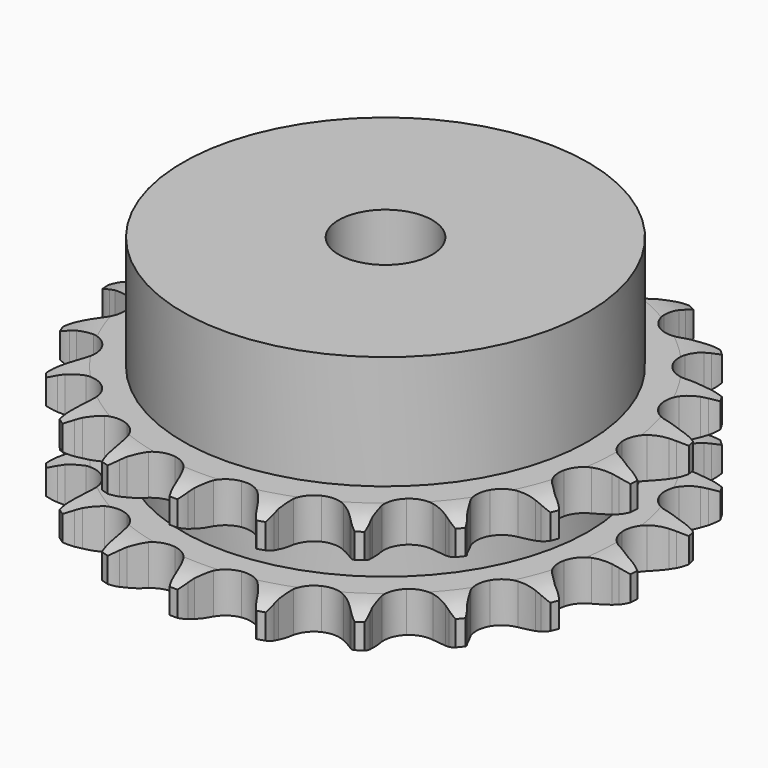
from build123d import *

# Parameters (mm, degrees)
PAD_DEPTH         = 15.4
SKETCH001_R       = 26
PAD001_DEPTH      = 30
SKETCH002_R       = 6
POCKET_DEPTH      = 0.001
POCKET_DEPTH_BACK = 30.001


with BuildPart() as part:
    # Sprocket → Pad (new body)
    with BuildSketch(Plane.XY):
        with BuildLine():
            ThreePointArc((-5.185084, 34.400783), (-4.485693, 33.577502), (-3.970816, 32.627848))
            Line((-3.970816, 32.627848), (-3.66429, 31.888696))
            ThreePointArc((-3.66429, 31.888696), (-3.171052, 30.893206), (-2.549416, 29.972418))
            ThreePointArc((-2.549416, 29.972418), (-1.419106, 29.053606), (0, 28.725048))
            ThreePointArc((0, 28.725048), (1.419106, 29.053606), (2.549416, 29.972418))
            ThreePointArc((2.549416, 29.972418), (3.171052, 30.893206), (3.66429, 31.888696))
            Line((3.66429, 31.888696), (3.970816, 32.627848))
            ThreePointArc((3.970816, 32.627848), (4.485693, 33.577502), (5.185084, 34.400783))
            ThreePointArc((5.185084, 34.400783), (5.610736, 33.407929), (5.822823, 32.348703))
            Line((5.822823, 32.348703), (5.897862, 31.552039))
            ThreePointArc((5.897862, 31.552039), (6.075761, 30.455392), (6.398373, 29.392281))
            ThreePointArc((6.398373, 29.392281), (7.207641, 28.181125), (8.466857, 27.448875))
            ThreePointArc((8.466857, 27.448875), (9.91976, 27.344547), (11.270678, 27.889374))
            Line((11.270678, 27.889374), (12.900854, 29.391902))
            ThreePointArc((12.900854, 29.391902), (13.148823, 29.706036), (13.411631, 30.007865))
            ThreePointArc((13.411631, 30.007865), (14.183549, 30.763566), (15.094534, 31.344123))
            ThreePointArc((15.094534, 31.344123), (15.208627, 30.269915), (15.099079, 29.195234))
            Line((15.099079, 29.195234), (14.935964, 28.411845))
            ThreePointArc((14.935964, 28.411845), (14.782716, 27.311482), (14.777638, 26.200511))
            ThreePointArc((14.777638, 26.200511), (15.193958, 24.804627), (16.181396, 23.733748))
            ThreePointArc((16.181396, 23.733748), (17.539, 23.205805), (18.99049, 23.328237))
            Line((18.99049, 23.328237), (20.99112, 24.283509))
            ThreePointArc((20.99112, 24.283509), (21.320666, 24.510597), (21.660764, 24.721552))
            ThreePointArc((21.660764, 24.721552), (22.621134, 25.216153), (23.662768, 25.502399))
            ThreePointArc((23.662768, 25.502399), (23.455164, 24.442286), (23.033715, 23.44764))
            Line((23.033715, 23.44764), (22.646939, 22.747134))
            ThreePointArc((22.646939, 22.747134), (22.176162, 21.740827), (21.843845, 20.68071))
            ThreePointArc((21.843845, 20.68071), (21.830226, 19.224129), (22.458147, 17.909774))
            ThreePointArc((22.458147, 17.909774), (23.599823, 17.005125), (25.022915, 16.694283))
            Line((25.022915, 16.694283), (27.216234, 17.01742))
            ThreePointArc((27.216234, 17.01742), (27.598074, 17.137283), (27.985242, 17.238621))
            ThreePointArc((27.985242, 17.238621), (29.048732, 17.428174), (30.128462, 17.394676))
            ThreePointArc((30.128462, 17.394676), (29.617607, 16.442853), (28.921705, 15.61662))
            Line((28.921705, 15.61662), (28.345634, 15.06124))
            ThreePointArc((28.345634, 15.06124), (27.599159, 14.238405), (26.969131, 13.323338))
            ThreePointArc((26.969131, 13.323338), (26.526782, 11.935483), (26.739393, 10.494438))
            ThreePointArc((26.739393, 10.494438), (27.563697, 9.293465), (28.831943, 8.57697))
            Line((28.831943, 8.57697), (31.023065, 8.239258))
            ThreePointArc((31.023065, 8.239258), (31.423271, 8.241247), (31.823109, 8.223963))
            ThreePointArc((31.823109, 8.223963), (32.895222, 8.091625), (33.91711, 7.741359))
            ThreePointArc((33.91711, 7.741359), (33.148396, 6.9824), (32.239874, 6.397995))
            Line((32.239874, 6.397995), (31.525696, 6.037089))
            ThreePointArc((31.525696, 6.037089), (30.569849, 5.470837), (29.698091, 4.782129))
            ThreePointArc((29.698091, 4.782129), (28.866317, 3.586317), (28.644727, 2.146626))
            ThreePointArc((28.644727, 2.146626), (29.078417, 0.75604), (30.079127, -0.302445))
            Line((30.079127, -0.302445), (32.073361, -1.270998))
            ThreePointArc((32.073361, -1.270998), (32.456374, -1.387061), (32.833353, -1.521431))
            ThreePointArc((32.833353, -1.521431), (33.818828, -1.9639), (34.692073, -2.599811))
            ThreePointArc((34.692073, -2.599811), (33.733804, -3.09847), (32.693389, -3.389119))
            Line((32.693389, -3.389119), (31.904561, -3.523484))
            ThreePointArc((31.904561, -3.523484), (30.824274, -3.782838), (29.788245, -4.183994))
            ThreePointArc((29.788245, -4.183994), (28.640953, -5.081509), (28.004851, -6.391925))
            ThreePointArc((28.004851, -6.391925), (28.009391, -7.848562), (28.653648, -9.154987))
            Line((28.653648, -9.154987), (30.273798, -10.668321))
            ThreePointArc((30.273798, -10.668321), (30.605585, -10.892122), (30.92621, -11.131639))
            ThreePointArc((30.92621, -11.131639), (31.737483, -11.844924), (32.384494, -12.709977))
            ThreePointArc((32.384494, -12.709977), (31.321816, -12.904027), (30.241953, -12.875096))
            Line((30.241953, -12.875096), (29.448565, -12.77098))
            ThreePointArc((29.448565, -12.77098), (28.339827, -12.700391), (27.231583, -12.77835))
            ThreePointArc((27.231583, -12.77835), (25.870714, -13.297821), (24.876621, -14.362524))
            ThreePointArc((24.876621, -14.362524), (24.451608, -15.755785), (24.682167, -17.194068))
            Line((24.682167, -17.194068), (25.784276, -19.117716))
            ThreePointArc((25.784276, -19.117716), (26.035355, -19.42937), (26.271137, -19.752752))
            ThreePointArc((26.271137, -19.752752), (26.836123, -20.673475), (27.19941, -21.690806))
            ThreePointArc((27.19941, -21.690806), (26.126747, -21.563004), (25.103387, -21.217064))
            Line((25.103387, -21.217064), (24.375936, -20.883718))
            ThreePointArc((24.375936, -20.883718), (23.337262, -20.489459), (22.255275, -20.237294))
            ThreePointArc((22.255275, -20.237294), (20.80175, -20.332563), (19.537995, -21.05695))
            ThreePointArc((19.537995, -21.05695), (18.721192, -22.263038), (18.517568, -23.70538))
            Line((18.517568, -23.70538), (19.003707, -25.868418))
            ThreePointArc((19.003707, -25.868418), (19.15177, -26.240233), (19.281758, -26.618746))
            ThreePointArc((19.281758, -26.618746), (19.550256, -27.665096), (19.59754, -28.744311))
            ThreePointArc((19.59754, -28.744311), (18.610202, -28.306014), (17.734275, -27.673802))
            Line((17.734275, -27.673802), (17.137398, -27.140846))
            ThreePointArc((17.137398, -27.140846), (16.261079, -26.457949), (15.301489, -25.898065))
            ThreePointArc((15.301489, -25.898065), (13.884458, -25.560668), (12.463331, -25.880374))
            ThreePointArc((12.463331, -25.880374), (11.327317, -26.792122), (10.707601, -28.110365))
            Line((10.707601, -28.110365), (10.534576, -30.320598))
            ThreePointArc((10.534576, -30.320598), (10.566466, -30.719536), (10.579111, -31.119548))
            ThreePointArc((10.579111, -31.119548), (10.527262, -32.198553), (10.254341, -33.243758))
            ThreePointArc((10.254341, -33.243758), (9.440058, -32.533911), (8.789394, -31.671602))
            Line((8.789394, -31.671602), (8.376126, -30.986391))
            ThreePointArc((8.376126, -30.986391), (7.740028, -30.075534), (6.988098, -29.25768))
            ThreePointArc((6.988098, -29.25768), (5.733472, -28.517595), (4.281246, -28.404213))
            ThreePointArc((4.281246, -28.404213), (2.926959, -28.940608), (1.946216, -30.017621))
            Line((1.946216, -30.017621), (1.129401, -32.078659))
            ThreePointArc((1.129401, -32.078659), (1.042286, -32.469274), (0.936463, -32.855241))
            ThreePointArc((0.936463, -32.855241), (0.568875, -33.871026), (0, -34.789352))
            ThreePointArc((0, -34.789352), (-0.568875, -33.871026), (-0.936463, -32.855241))
            Line((-0.936463, -32.855241), (-1.129401, -32.078659))
            ThreePointArc((-1.129401, -32.078659), (-1.468759, -31.020775), (-1.946216, -30.017621))
            ThreePointArc((-1.946216, -30.017621), (-2.926959, -28.940608), (-4.281246, -28.404213))
            ThreePointArc((-4.281246, -28.404213), (-5.733472, -28.517595), (-6.988098, -29.25768))
            Line((-6.988098, -29.25768), (-8.376126, -30.986391))
            ThreePointArc((-8.376126, -30.986391), (-8.574507, -31.333975), (-8.789394, -31.671602))
            ThreePointArc((-8.789394, -31.671602), (-9.440058, -32.533911), (-10.254341, -33.243758))
            ThreePointArc((-10.254341, -33.243758), (-10.527262, -32.198553), (-10.579111, -31.119548))
            Line((-10.579111, -31.119548), (-10.534576, -30.320598))
            ThreePointArc((-10.534576, -30.320598), (-10.547041, -29.209685), (-10.707601, -28.110365))
            ThreePointArc((-10.707601, -28.110365), (-11.327317, -26.792122), (-12.463331, -25.880374))
            ThreePointArc((-12.463331, -25.880374), (-13.884458, -25.560668), (-15.301489, -25.898065))
            Line((-15.301489, -25.898065), (-17.137398, -27.140846))
            ThreePointArc((-17.137398, -27.140846), (-17.429417, -27.414514), (-17.734275, -27.673802))
            ThreePointArc((-17.734275, -27.673802), (-18.610202, -28.306014), (-19.59754, -28.744311))
            ThreePointArc((-19.59754, -28.744311), (-19.550256, -27.665096), (-19.281758, -26.618746))
            Line((-19.281758, -26.618746), (-19.003707, -25.868418))
            ThreePointArc((-19.003707, -25.868418), (-18.688171, -24.803186), (-18.517568, -23.70538))
            ThreePointArc((-18.517568, -23.70538), (-18.721192, -22.263038), (-19.537995, -21.05695))
            ThreePointArc((-19.537995, -21.05695), (-20.80175, -20.332563), (-22.255275, -20.237294))
            Line((-22.255275, -20.237294), (-24.375936, -20.883718))
            ThreePointArc((-24.375936, -20.883718), (-24.735646, -21.059153), (-25.103387, -21.217064))
            ThreePointArc((-25.103387, -21.217064), (-26.126747, -21.563004), (-27.19941, -21.690806))
            ThreePointArc((-27.19941, -21.690806), (-26.836123, -20.673475), (-26.271137, -19.752752))
            Line((-26.271137, -19.752752), (-25.784276, -19.117716))
            ThreePointArc((-25.784276, -19.117716), (-25.168775, -18.192815), (-24.682167, -17.194068))
            ThreePointArc((-24.682167, -17.194068), (-24.451608, -15.755785), (-24.876621, -14.362524))
            ThreePointArc((-24.876621, -14.362524), (-25.870714, -13.297821), (-27.231583, -12.77835))
            Line((-27.231583, -12.77835), (-29.448565, -12.77098))
            ThreePointArc((-29.448565, -12.77098), (-29.844005, -12.832594), (-30.241953, -12.875096))
            ThreePointArc((-30.241953, -12.875096), (-31.321816, -12.904027), (-32.384494, -12.709977))
            ThreePointArc((-32.384494, -12.709977), (-31.737483, -11.844924), (-30.92621, -11.131639))
            Line((-30.92621, -11.131639), (-30.273798, -10.668321))
            ThreePointArc((-30.273798, -10.668321), (-29.413023, -9.965932), (-28.653648, -9.154987))
            ThreePointArc((-28.653648, -9.154987), (-28.009391, -7.848562), (-28.004851, -6.391925))
            ThreePointArc((-28.004851, -6.391925), (-28.640953, -5.081509), (-29.788245, -4.183994))
            Line((-29.788245, -4.183994), (-31.904561, -3.523484))
            ThreePointArc((-31.904561, -3.523484), (-32.300593, -3.465803), (-32.693389, -3.389119))
            ThreePointArc((-32.693389, -3.389119), (-33.733804, -3.09847), (-34.692073, -2.599811))
            ThreePointArc((-34.692073, -2.599811), (-33.818828, -1.9639), (-32.833353, -1.521431))
            Line((-32.833353, -1.521431), (-32.073361, -1.270998))
            ThreePointArc((-32.073361, -1.270998), (-31.043795, -0.853533), (-30.079127, -0.302445))
            ThreePointArc((-30.079127, -0.302445), (-29.078417, 0.75604), (-28.644727, 2.146626))
            ThreePointArc((-28.644727, 2.146626), (-28.866317, 3.586317), (-29.698091, 4.782129))
            Line((-29.698091, 4.782129), (-31.525696, 6.037089))
            ThreePointArc((-31.525696, 6.037089), (-31.887132, 6.20894), (-32.239874, 6.397995))
            ThreePointArc((-32.239874, 6.397995), (-33.148396, 6.9824), (-33.91711, 7.741359))
            ThreePointArc((-33.91711, 7.741359), (-32.895222, 8.091625), (-31.823109, 8.223963))
            Line((-31.823109, 8.223963), (-31.023065, 8.239258))
            ThreePointArc((-31.023065, 8.239258), (-29.91619, 8.334706), (-28.831943, 8.57697))
            ThreePointArc((-28.831943, 8.57697), (-27.563697, 9.293465), (-26.739393, 10.494438))
            ThreePointArc((-26.739393, 10.494438), (-26.526782, 11.935483), (-26.969131, 13.323338))
            Line((-26.969131, 13.323338), (-28.345634, 15.06124))
            ThreePointArc((-28.345634, 15.06124), (-28.640359, 15.331991), (-28.921705, 15.61662))
            ThreePointArc((-28.921705, 15.61662), (-29.617607, 16.442853), (-30.128462, 17.394676))
            ThreePointArc((-30.128462, 17.394676), (-29.048732, 17.428174), (-27.985242, 17.238621))
            Line((-27.985242, 17.238621), (-27.216234, 17.01742))
            ThreePointArc((-27.216234, 17.01742), (-26.1304, 16.782371), (-25.022915, 16.694283))
            ThreePointArc((-25.022915, 16.694283), (-23.599823, 17.005125), (-22.458147, 17.909774))
            ThreePointArc((-22.458147, 17.909774), (-21.830226, 19.224129), (-21.843845, 20.68071))
            Line((-21.843845, 20.68071), (-22.646939, 22.747134))
            ThreePointArc((-22.646939, 22.747134), (-22.848765, 23.092728), (-23.033715, 23.44764))
            ThreePointArc((-23.033715, 23.44764), (-23.455164, 24.442286), (-23.662768, 25.502399))
            ThreePointArc((-23.662768, 25.502399), (-22.621134, 25.216153), (-21.660764, 24.721552))
            Line((-21.660764, 24.721552), (-20.99112, 24.283509))
            ThreePointArc((-20.99112, 24.283509), (-20.022809, 23.738847), (-18.99049, 23.328237))
            ThreePointArc((-18.99049, 23.328237), (-17.539, 23.205805), (-16.181396, 23.733748))
            ThreePointArc((-16.181396, 23.733748), (-15.193958, 24.804627), (-14.777638, 26.200511))
            Line((-14.777638, 26.200511), (-14.935964, 28.411845))
            ThreePointArc((-14.935964, 28.411845), (-15.026957, 28.801574), (-15.099079, 29.195234))
            ThreePointArc((-15.099079, 29.195234), (-15.208627, 30.269915), (-15.094534, 31.344123))
            ThreePointArc((-15.094534, 31.344123), (-14.183549, 30.763566), (-13.411631, 30.007865))
            Line((-13.411631, 30.007865), (-12.900854, 29.391902))
            ThreePointArc((-12.900854, 29.391902), (-12.136104, 28.586024), (-11.270678, 27.889374))
            ThreePointArc((-11.270678, 27.889374), (-9.91976, 27.344547), (-8.466857, 27.448875))
            ThreePointArc((-8.466857, 27.448875), (-7.207641, 28.181125), (-6.398373, 29.392281))
            Line((-6.398373, 29.392281), (-5.897862, 31.552039))
            ThreePointArc((-5.897862, 31.552039), (-5.869938, 31.951275), (-5.822823, 32.348703))
            ThreePointArc((-5.822823, 32.348703), (-5.610736, 33.407929), (-5.185084, 34.400783))
        make_face()
    extrude(amount=PAD_DEPTH)

    # Sketch → Groove (revolve, cut)
    with BuildSketch(Plane.XZ):
        with BuildLine():
            ThreePointArc((29.641101, 0), (31.877169, 0.253206), (34, 1))
            Line((34, 1), (34, 4.2))
            ThreePointArc((34, 4.2), (31.877169, 4.946794), (29.641101, 5.2))
            Line((26, 5.2), (29.641101, 5.2))
            Line((26, 10.2), (26, 5.2))
            Line((29.641101, 10.2), (26, 10.2))
            ThreePointArc((29.641101, 10.2), (31.877169, 10.453206), (34, 11.2))
            Line((34, 11.2), (34, 14.4))
            ThreePointArc((34, 14.4), (31.877169, 15.146794), (29.641101, 15.4))
            Line((29.641101, 15.4), (39.641101, 15.4))
            Line((39.641101, 15.4), (39.641101, 0))
            Line((29.641101, 0), (39.641101, 0))
        make_face()
    revolve(axis=Axis((0, 0, 0), (0, 0, 1)), mode=Mode.SUBTRACT)

    # Sketch001 → Pad001 (join)
    with BuildSketch(Plane.XY):
        Circle(SKETCH001_R)
    extrude(amount=PAD001_DEPTH)

    # Sketch002 → Pocket (cut, two sides)
    with BuildSketch(Plane.XY) as pocket_sk:
        Circle(SKETCH002_R)
    extrude(amount=-POCKET_DEPTH, mode=Mode.SUBTRACT)
    extrude(pocket_sk.sketch, amount=POCKET_DEPTH_BACK, mode=Mode.SUBTRACT)


solid = part.part
